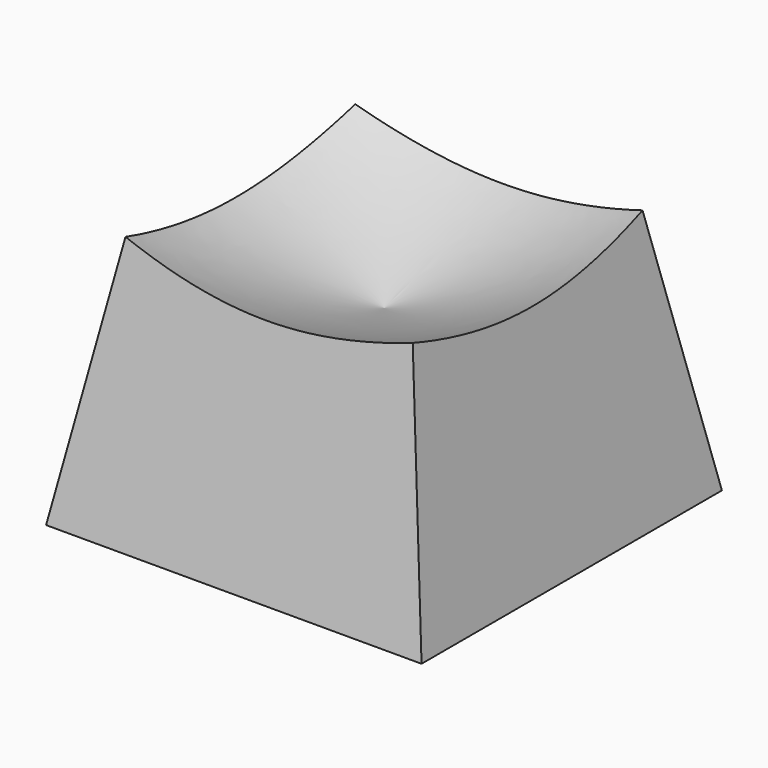
from build123d import *

# Parameters (mm, degrees)
F0_W     = 18
F0_H     = 18
F1_DEPTH = 12
F1_TAPER = 10


with BuildPart() as f1:
    # F0 (on Top) → F1 (new body)
    with BuildSketch(Plane.XY):
        Rectangle(F0_W, F0_H)
    extrude(amount=F1_DEPTH, taper=F1_TAPER)

    # F3 (on offset) → F4 (revolve, cut)
    with BuildSketch(Plane.YZ):
        with BuildLine():
            Line((0, 12), (0, 8.4363589494))
            ThreePointArc((0, 8.4363589494), (8.3365440222, 11.3366452454), (16.0331911725, 15.6576693689))
            Line((16.0331911725, 15.6576693689), (0, 15.6576693689))
            Line((0, 15.6576693689), (0, 12))
        make_face()
    revolve(axis=Axis((0, 0, 13.8288346844), (0, 0, -1)), mode=Mode.SUBTRACT)


solid = f1.part
